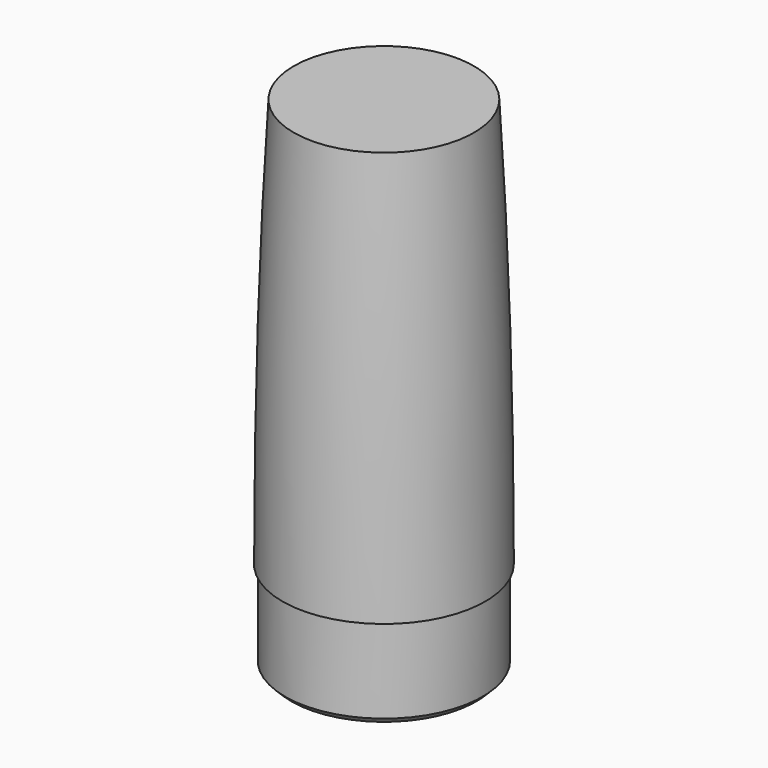
from build123d import *

# Parameters (mm, degrees)
F2_SIZE = 2


with BuildPart() as f1:
    # F0 (on Front) → F1 (revolve)
    with BuildSketch(Plane.XZ):
        with BuildLine():
            Line((-25.5991816521, 135), (-29.7594352231, 135))
            add(Edge.make_bspline(
                [(-29.7594352231, 135), (-33.5, 71.4913116763), (-33.5, 0)],
                knots=[1.0937202801, 1.0937202801, 1.0937202801, 1.5707963268, 1.5707963268, 1.5707963268], degree=2, weights=[1, 0.9716844524, 1]))
            Line((-33.5, 0), (-32.55, 0))
            Line((-32.55, 0), (-32.55, -30))
            Line((-32.55, -30), (0, -30))
            Line((0, -30), (0, 0))
            Line((0, 0), (0, 129))
            Line((0, 129), (0, 135))
            Line((0, 135), (-25.5991816521, 135))
        make_face()
    revolve(axis=Axis((0, 0, -82.5), (0, 0, -1)))

    # F2
    f2_edges = [f1.edges().sort_by_distance(p)[0] for p in [
        (32.55, 0, -30),
    ]]
    chamfer(f2_edges, length=F2_SIZE)


solid = f1.part
